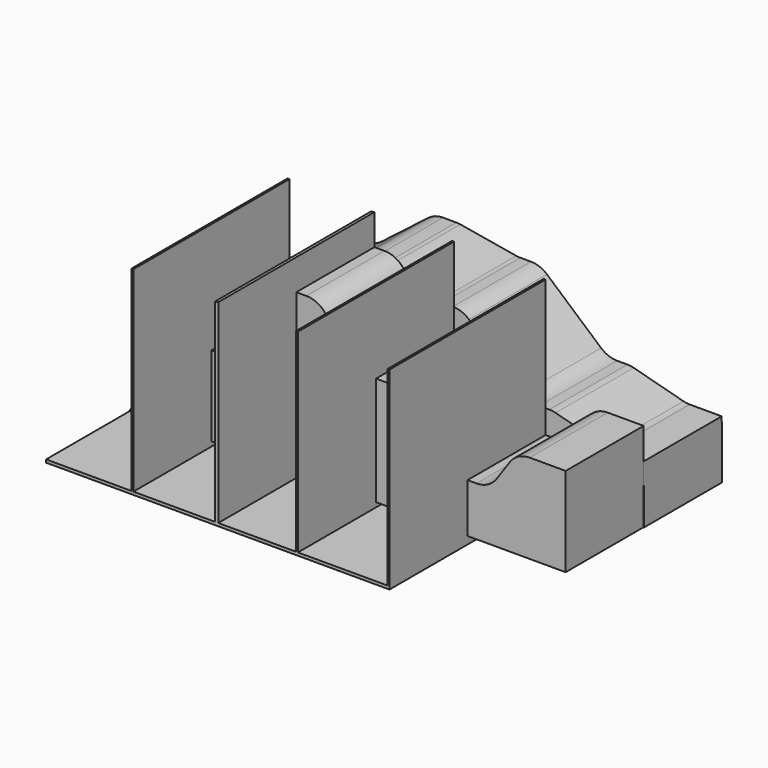
from build123d import *

# Parameters (mm, degrees)
F1_DEPTH = 25.4
F3_DEPTH = 25.4
F4_W     = 22.2249999642
F4_H     = 0.76200068
F4_W_2   = 0.5079992115
F4_W_3   = 21.2441299809
F4_H_2   = 9.0737463906
F4_W_4   = 0.8511701599
F4_H_3   = 20.5226591788
F4_W_5   = 20.2389379265
F4_H_4   = 8.6062769406
F4_W_6   = 0.508
F4_H_5   = 10.0248930976
F4_H_6   = 6.7147873342
F4_W_7   = 23.3247663392
F4_H_7   = 10.4977660812
F4_H_8   = 6.0527641326
F4_H_9   = 5.6744683534
F4_H_10  = 4.7287233174
F5_DEPTH = 50.8


with BuildPart() as f1:
    # F0 (on Front) → F1 (new body)
    with BuildSketch(Plane.XZ):
        with BuildLine():
            Line((-30.819990354, -2.8361052375), (-42.790342193, -20.853979461))
            Line((-42.790342193, -20.853979461), (70.836275816, -20.853979461))
            Line((70.836275816, -20.853979461), (70.836275816, 2.3643618915))
            Line((70.836275816, 2.3643618915), (61.4942277295, 2.3643618915))
            ThreePointArc((61.4942277295, 2.3643618915), (58.5444894383, 1.6376655481), (56.2698894245, -0.3760966869))
            Line((56.2698894245, -0.3760966869), (52.8690463799, -5.2983714337))
            ThreePointArc((52.8690463799, -5.2983714337), (50.594446366, -7.3121336686), (47.6447080748, -8.0388300121))
            Line((47.6447080748, -8.0388300121), (41.311316045, -8.0388300121))
            ThreePointArc((41.311316045, -8.0388300121), (38.3228848586, -7.2916667082), (36.0377122921, -5.2260045141))
            Line((36.0377122921, -5.2260045141), (29.4078207302, 4.6585575856))
            ThreePointArc((29.4078207302, 4.6585575856), (27.1226481637, 6.7242197798), (24.1342169773, 7.4713830836))
            Line((24.1342169773, 7.4713830836), (18.4168425914, 7.4713830836))
            ThreePointArc((18.4168425914, 7.4713830836), (15.3058187841, 8.2856779912), (12.9926818567, 10.5197198173))
            Line((12.9926818567, 10.5197198173), (8.7594460552, 17.4743210481))
            ThreePointArc((8.7594460552, 17.4743210481), (6.4463091278, 19.7083628743), (3.3352853205, 20.5226577818))
            Line((3.3352853205, 20.5226577818), (-1.8794359807, 20.5226577818))
            ThreePointArc((-1.8794359807, 20.5226577818), (-5.1962614115, 19.5875602797), (-7.5362190706, 17.0576716594))
            Line((-7.5362190706, 17.0576716594), (-14.4686196565, 3.4649861225))
            ThreePointArc((-14.4686196565, 3.4649861225), (-16.8085773156, 0.9350975022), (-20.1254027465, 0))
            Line((-20.1254027465, 0), (-22.1528416601, 0))
            Line((-22.1528416601, 0), (-25.5308464159, 0))
            ThreePointArc((-25.5308464159, 0), (-28.5316186713, -0.7537632403), (-30.819990354, -2.8361052375))
        make_face()
    extrude(amount=F1_DEPTH)


with BuildPart() as f3:
    # F2 (on Front) → F3 (new body)
    with BuildSketch(Plane.XZ):
        with BuildLine():
            Line((-42.6766388118, -20.8462458104), (70.8844587207, -20.9271851927))
            Line((70.8844587207, -20.9271851927), (70.836275816, -5.7690422982))
            Line((70.836275816, -5.7690422982), (62.4933730942, -5.7690422982))
            ThreePointArc((62.4933730942, -5.7690422982), (61.669572259, -5.7153787079), (60.8596952382, -5.5552949546))
            Line((60.8596952382, -5.5552949546), (47.9009410616, -2.1052366007))
            ThreePointArc((47.9009410616, -2.1052366007), (47.0910640408, -1.9451528474), (46.2672632057, -1.8914892571))
            Line((46.2672632057, -1.8914892571), (43.6135176722, -1.8914892571))
            ThreePointArc((43.6135176722, -1.8914892571), (41.3856896822, -1.4878564209), (39.4410820167, -0.3282711302))
            Line((39.4410820167, -0.3282711302), (25.342427804, 11.9609304863))
            ThreePointArc((25.342427804, 11.9609304863), (23.3978201385, 13.120515777), (21.1699921485, 13.5241486132))
            Line((21.1699921485, 13.5241486132), (18.4095382194, 13.5241486132))
            ThreePointArc((18.4095382194, 13.5241486132), (17.876462679, 13.5465637289), (17.3471505874, 13.6136508279))
            Line((17.3471505874, 13.6136508279), (2.7972111824, 16.0827317542))
            ThreePointArc((2.7972111824, 16.0827317542), (2.2678990908, 16.1498188533), (1.7348235503, 16.172233969))
            Line((1.7348235503, 16.172233969), (-1.7079213218, 16.172233969))
            ThreePointArc((-1.7079213218, 16.172233969), (-3.7610192582, 15.8311680561), (-5.5935686207, 14.8446084142))
            Line((-5.5935686207, 14.8446084142), (-17.5771749825, 5.5732830285))
            ThreePointArc((-17.5771749825, 5.5732830285), (-19.4097243451, 4.5867233867), (-21.4628222814, 4.2456574738))
            Line((-21.4628222814, 4.2456574738), (-22.0986377263, 4.2456574738))
            ThreePointArc((-22.0986377263, 4.2456574738), (-25.0559805682, 3.5149655554), (-27.332722933, 1.4910506441))
            Line((-27.332722933, 1.4910506441), (-42.6766388118, -20.8462458104))
        make_face()
    extrude(amount=-F3_DEPTH)


with BuildPart() as f5:
    # F4 (on Front) → F5 (new body)
    with BuildSketch(Plane.XZ):
        with Locations((-32.9904966056, -22.4273987114)):
            Rectangle(F4_W, F4_H)
        with Locations((-21.6239970177, -22.4273987114)):
            Rectangle(F4_W_2, F4_H)
        with Locations((-10.7479324215, -22.4273987114)):
            Rectangle(F4_W_3, F4_H)
        with Locations((-21.6239970177, -17.5095251761)):
            Rectangle(F4_W_2, F4_H_2)
        with Locations((0.2997176489, -22.4273987114)):
            Rectangle(F4_W_4, F4_H)
        with Locations((-21.6239970177, -2.7113223914)):
            Rectangle(F4_W_2, F4_H_3)
        with Locations((10.8447716921, -22.4273987114)):
            Rectangle(F4_W_5, F4_H)
        with Locations((0.2997176489, -17.5095251761)):
            Rectangle(F4_W_4, F4_H_2)
        with Locations((-21.6239970177, 11.8531456683)):
            Rectangle(F4_W_2, F4_H_4)
        with Locations((21.2182406553, -22.4273987114)):
            Rectangle(F4_W_6, F4_H)
        with Locations((0.2997176489, -7.960205432)):
            Rectangle(F4_W_4, F4_H_5)
        with Locations((-21.6239970177, 19.5136778057)):
            Rectangle(F4_W_2, F4_H_6)
        with Locations((33.1346238249, -22.4273987114)):
            Rectangle(F4_W_7, F4_H)
        with Locations((21.2182406553, -17.5095251761)):
            Rectangle(F4_W_6, F4_H_2)
        with Locations((0.2997176489, 2.3011241574)):
            Rectangle(F4_W_4, F4_H_7)
        with Locations((-21.6239970177, 25.8974535391)):
            Rectangle(F4_W_2, F4_H_8)
        with Locations((45.0510066003, -22.4273987114)):
            Rectangle(F4_W_2, F4_H)
        with Locations((21.2182406553, -7.960205432)):
            Rectangle(F4_W_6, F4_H_5)
        with Locations((0.2997176489, 11.8531456683)):
            Rectangle(F4_W_4, F4_H_4)
        with Locations((45.0510066003, -17.5095251761)):
            Rectangle(F4_W_2, F4_H_2)
        with Locations((21.2182406553, 2.3011241574)):
            Rectangle(F4_W_6, F4_H_7)
        with Locations((0.2997176489, 19.5136778057)):
            Rectangle(F4_W_4, F4_H_6)
        with Locations((45.0510066003, -7.960205432)):
            Rectangle(F4_W_2, F4_H_5)
        with Locations((21.2182406553, 11.8531456683)):
            Rectangle(F4_W_6, F4_H_4)
        Polygon((-0.1258674311, 28.4509640187), (-0.1258674311, 22.8710714728), (0.7253027288, 22.8710714728), (0.7253027288, 28.5455398262), align=None)
        with Locations((45.0510066003, 2.3011241574)):
            Rectangle(F4_W_2, F4_H_7)
        with Locations((21.2182406553, 19.5136778057)):
            Rectangle(F4_W_6, F4_H_6)
        with Locations((45.0510066003, 11.8531456683)):
            Rectangle(F4_W_2, F4_H_4)
        with Locations((21.2182406553, 25.7083056495)):
            Rectangle(F4_W_6, F4_H_9)
        with Locations((45.0510066003, 19.5136778057)):
            Rectangle(F4_W_2, F4_H_6)
        with Locations((45.0510066003, 25.2354331315)):
            Rectangle(F4_W_2, F4_H_10)
    extrude(amount=F5_DEPTH)


solid = Compound([f1.part, f3.part, f5.part])
